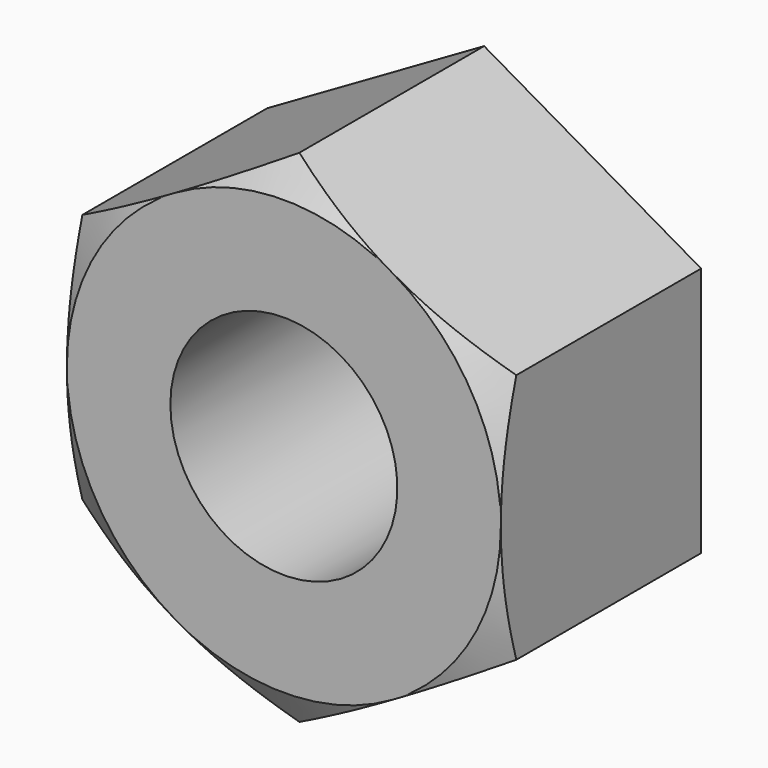
from build123d import *

# Parameters (mm, degrees)
F1_DEPTH = 7.5
F5_D     = 6.8


with BuildPart() as f1:
    # F0 (on Front) → F1 (new body)
    with BuildSketch(Plane.XZ):
        Polygon((6.5, -3.7527767497), (6.5, 3.7527767497), (0, 7.5055534995), (-6.5, 3.7527767497), (-6.5, -3.7527767497), (0, -7.5055534995), align=None)
    extrude(amount=-F1_DEPTH)

    # F2 (on Right) → F3 (revolve, cut)
    with BuildSketch(Plane.YZ):
        Polygon((0, 11.5055534995), (0, 6.5), (2.8899576604, 11.5055534995), align=None)
    revolve(axis=Axis((0, 2.7997596189, 0), (0, 1, 0)), mode=Mode.SUBTRACT)

    # F5 (through all)
    with Locations(Plane.XZ):
        with Locations((0, 0)):
            Hole(F5_D / 2)


solid = f1.part
